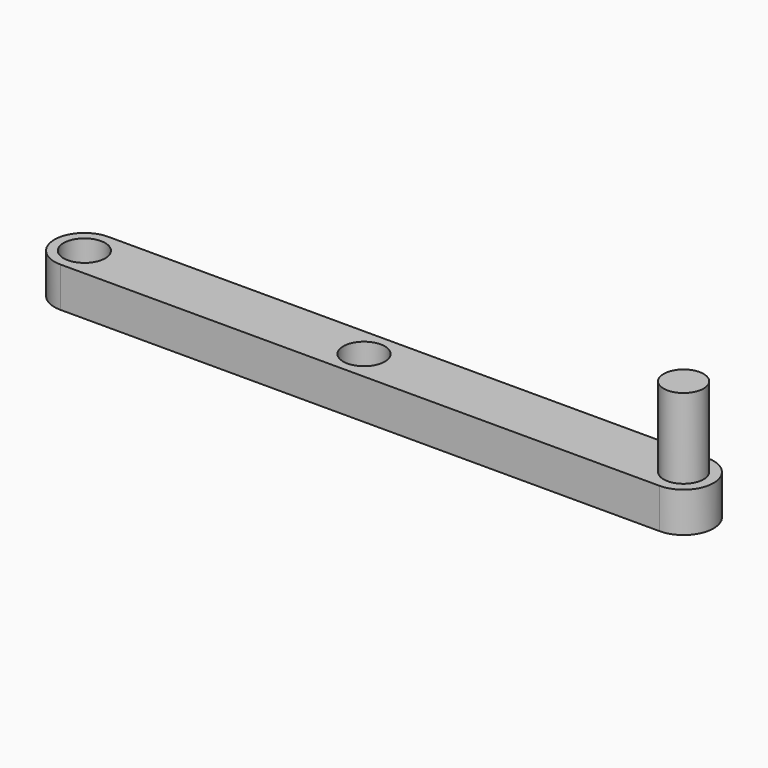
from build123d import *

# Parameters (mm, degrees)
F0_R          = 3.302
F0_R_2        = 3.175
F1_DEPTH      = 6.35
F2_R          = 3.175
F3_DEPTH      = 12.7
F3_DEPTH_BACK = 6.35


with BuildPart() as f1:
    # F0 (on Top) → F1 (new body)
    with BuildSketch(Plane.XY):
        with BuildLine():
            ThreePointArc((0, -4.7625), (4.7625, 0), (0, 4.7625))
            Line((0, 4.7625), (-95.25, 4.7625))
            ThreePointArc((-95.25, 4.7625), (-100.0125, 0), (-95.25, -4.7625))
            Line((-95.25, -4.7625), (0, -4.7625))
        make_face()
        with Locations((-95.25, 0)):
            Circle(F0_R, mode=Mode.SUBTRACT)
        with Locations((-50.8, 0)):
            Circle(F0_R, mode=Mode.SUBTRACT)
        Circle(F0_R_2, mode=Mode.SUBTRACT)
    extrude(amount=F1_DEPTH)

    # F2 (on face) → F3 (join, two sides)
    with BuildSketch(Plane.XY.offset(6.35)) as f3_sk:
        Circle(F2_R)
    extrude(amount=F3_DEPTH)
    extrude(f3_sk.sketch, amount=-F3_DEPTH_BACK)


solid = f1.part
